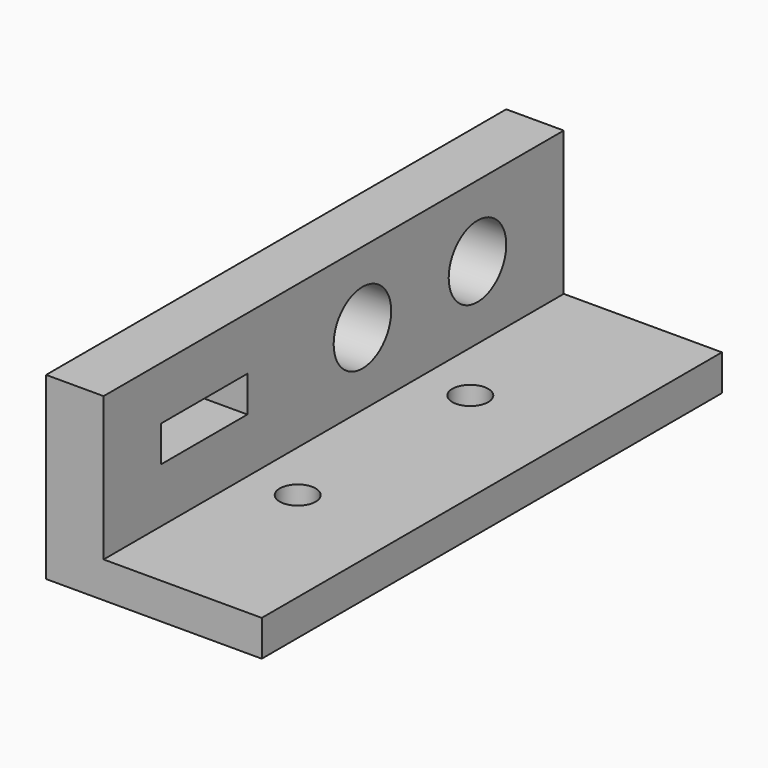
from build123d import *

# Parameters (mm, degrees)
F0_W     = 38.1
F0_H     = 101.6
F0_R     = 3.175
F1_DEPTH = 6.35
F2_W     = 10.16
F2_H     = 101.6
F3_DEPTH = 25.4
F4_R     = 6.35
F5_DEPTH = 25.4


with BuildPart() as f1:
    # F0 (on Top) → F1 (new body)
    with BuildSketch(Plane.XY):
        with Locations((19.05, 50.8)):
            Rectangle(F0_W, F0_H)
        with Locations((19.05, 31.75)):
            Circle(F0_R, mode=Mode.SUBTRACT)
        with Locations((19.05, 69.85)):
            Circle(F0_R, mode=Mode.SUBTRACT)
    extrude(amount=F1_DEPTH)

    # F2 (on face) → F3 (join)
    with BuildSketch(Plane.XY.offset(6.35)):
        with Locations((5.08, 50.8)):
            Rectangle(F2_W, F2_H)
    extrude(amount=F3_DEPTH)

    # F4 (on face) → F5 (cut)
    with BuildSketch(Plane(origin=(0, 0, 0), x_dir=(0, -1, 0), z_dir=(-1, 0, 0))):
        with Locations((-82.55, 19.160531)):
            Circle(F4_R)
        with Locations((-57.15, 19.160531)):
            Circle(F4_R)
        Polygon((-31.75, 19.160531), (-31.75, 15.985531), (-12.7, 15.985531), (-12.7, 19.160531), (-12.7, 22.335531), (-31.75, 22.335531), align=None)
    extrude(amount=-F5_DEPTH, mode=Mode.SUBTRACT)


solid = f1.part
